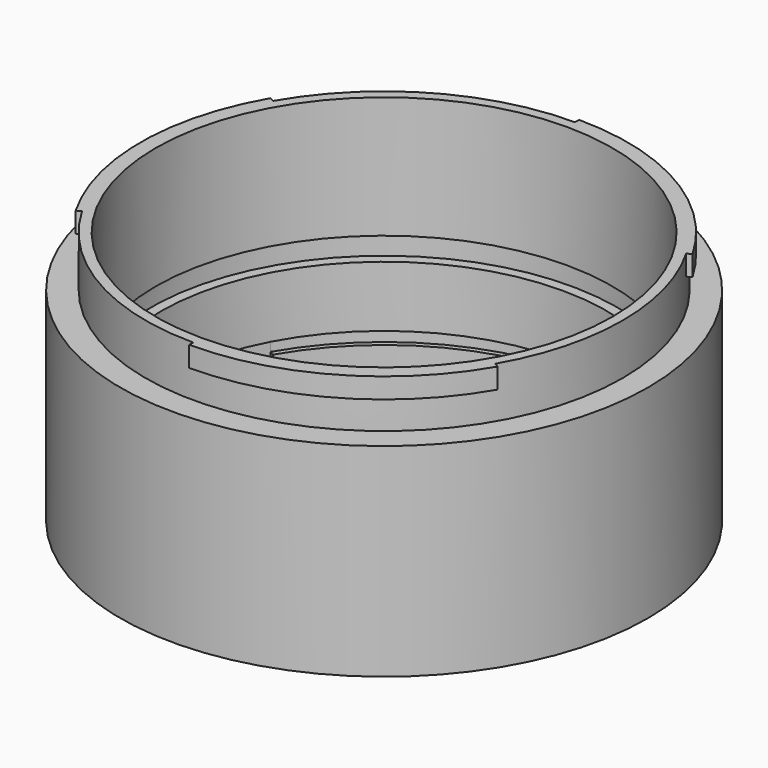
from build123d import *

# Parameters (mm, degrees)
F0_R      = 26
F0_R_2    = 22.5
F1_DEPTH  = 20
F2_R      = 23.5
F2_R_2    = 22.5
F3_DEPTH  = 5
F4_R      = 23.5
F4_R_2    = 22.5
F5_DEPTH  = 5
F7_DEPTH  = 2
F9_DEPTH  = 5
F11_DEPTH = 2
F12_R     = 22.5
F12_R_2   = 22
F13_DEPTH = 6
F14_R     = 23
F14_R_2   = 22.5
F15_DEPTH = 2


with BuildPart() as f1:
    # F0 (on Top) → F1 (new body)
    with BuildSketch(Plane.XY):
        Circle(F0_R)
        Circle(F0_R_2, mode=Mode.SUBTRACT)
    extrude(amount=F1_DEPTH)

    # F2 (on face) → F3 (cut)
    with BuildSketch(Plane(origin=(0, 0, 0), x_dir=(1, 0, 0), z_dir=(0, 0, -1))):
        Circle(F2_R)
        Circle(F2_R_2, mode=Mode.SUBTRACT)
    extrude(amount=-F3_DEPTH, mode=Mode.SUBTRACT)

    # F4 (on face) → F5 (join)
    with BuildSketch(Plane.XY.offset(20)):
        Circle(F4_R)
        Circle(F4_R_2, mode=Mode.SUBTRACT)
    extrude(amount=F5_DEPTH)

    # F6 (on face) → F7 (join)
    with BuildSketch(Plane.XY.offset(25)):
        with BuildLine():
            Line((-20.3515969889, 11.75), (-20.7846096908, 12))
            ThreePointArc((-20.7846096908, 12), (-24, 0), (-20.7846096908, -12))
            Line((-20.7846096908, -12), (-20.3515969889, -11.75))
            ThreePointArc((-20.3515969889, -11.75), (-23.5, 0), (-20.3515969889, 11.75))
        make_face()
        with BuildLine():
            Line((20.3515969889, 11.75), (20.7846096908, 12))
            ThreePointArc((20.7846096908, 12), (12, 20.7846096908), (0, 24))
            Line((0, 24), (0, 23.5))
            ThreePointArc((0, 23.5), (11.75, 20.3515969889), (20.3515969889, 11.75))
        make_face()
        with BuildLine():
            ThreePointArc((0, -24), (12, -20.7846096908), (20.7846096908, -12))
            Line((20.7846096908, -12), (20.3515969889, -11.75))
            ThreePointArc((20.3515969889, -11.75), (11.75, -20.3515969889), (0, -23.5))
            Line((0, -23.5), (0, -24))
        make_face()
    extrude(amount=-F7_DEPTH)

    # F8 (on face) → F9 (cut)
    with BuildSketch(Plane(origin=(0, 0, 0), x_dir=(1, 0, 0), z_dir=(0, 0, -1))):
        with BuildLine():
            Line((20.3515969889, 11.75), (20.7846096908, 12))
            ThreePointArc((20.7846096908, 12), (12, 20.7846096908), (0, 24))
            Line((0, 24), (0, 23.5))
            ThreePointArc((0, 23.5), (11.75, 20.3515969889), (20.3515969889, 11.75))
        make_face()
        with BuildLine():
            ThreePointArc((0, -24), (12, -20.7846096908), (20.7846096908, -12))
            Line((20.7846096908, -12), (20.3515969889, -11.75))
            ThreePointArc((20.3515969889, -11.75), (11.75, -20.3515969889), (0, -23.5))
            Line((0, -23.5), (0, -24))
        make_face()
        with BuildLine():
            Line((-20.3515969889, 11.75), (-20.7846096908, 12))
            ThreePointArc((-20.7846096908, 12), (-24, 0), (-20.7846096908, -12))
            Line((-20.7846096908, -12), (-20.3515969889, -11.75))
            ThreePointArc((-20.3515969889, -11.75), (-23.5, 0), (-20.3515969889, 11.75))
        make_face()
    extrude(amount=-F9_DEPTH, mode=Mode.SUBTRACT)

    # F10 (on face) → F11 (cut)
    with BuildSketch(Plane(origin=(0, 0, 5), x_dir=(1, 0, 0), z_dir=(0, 0, -1))):
        with BuildLine():
            ThreePointArc((20.3515969889, 11.75), (22.6992569178, 6.0822475599), (23.5, 0))
            ThreePointArc((23.5, 0), (22.6992569178, -6.0822475599), (20.3515969889, -11.75))
            Line((20.3515969889, -11.75), (20.7846096908, -12))
            ThreePointArc((20.7846096908, -12), (23.1822198309, -6.2116570825), (24, 0))
            ThreePointArc((24, 0), (23.1822198309, 6.2116570825), (20.7846096908, 12))
            Line((20.7846096908, 12), (20.3515969889, 11.75))
        make_face()
        with BuildLine():
            Line((0, -24), (0, -23.5))
            ThreePointArc((0, -23.5), (-11.75, -20.3515969889), (-20.3515969889, -11.75))
            Line((-20.3515969889, -11.75), (-20.7846096908, -12))
            ThreePointArc((-20.7846096908, -12), (-12, -20.7846096908), (0, -24))
        make_face()
        with BuildLine():
            ThreePointArc((-20.3515969889, 11.75), (-11.75, 20.3515969889), (0, 23.5))
            Line((0, 23.5), (0, 24))
            ThreePointArc((0, 24), (-12, 20.7846096908), (-20.7846096908, 12))
            Line((-20.7846096908, 12), (-20.3515969889, 11.75))
        make_face()
    extrude(amount=F11_DEPTH, mode=Mode.SUBTRACT)

    # F12 (on face) → F13 (join)
    with BuildSketch(Plane(origin=(0, 0, 5), x_dir=(1, 0, 0), z_dir=(0, 0, -1))):
        Circle(F12_R)
        Circle(F12_R_2, mode=Mode.SUBTRACT)
    extrude(amount=-F13_DEPTH)

    # F14 (on face) → F15 (cut)
    with BuildSketch(Plane.XY.offset(11)):
        Circle(F14_R)
        Circle(F14_R_2, mode=Mode.SUBTRACT)
    extrude(amount=F15_DEPTH, mode=Mode.SUBTRACT)


solid = f1.part
